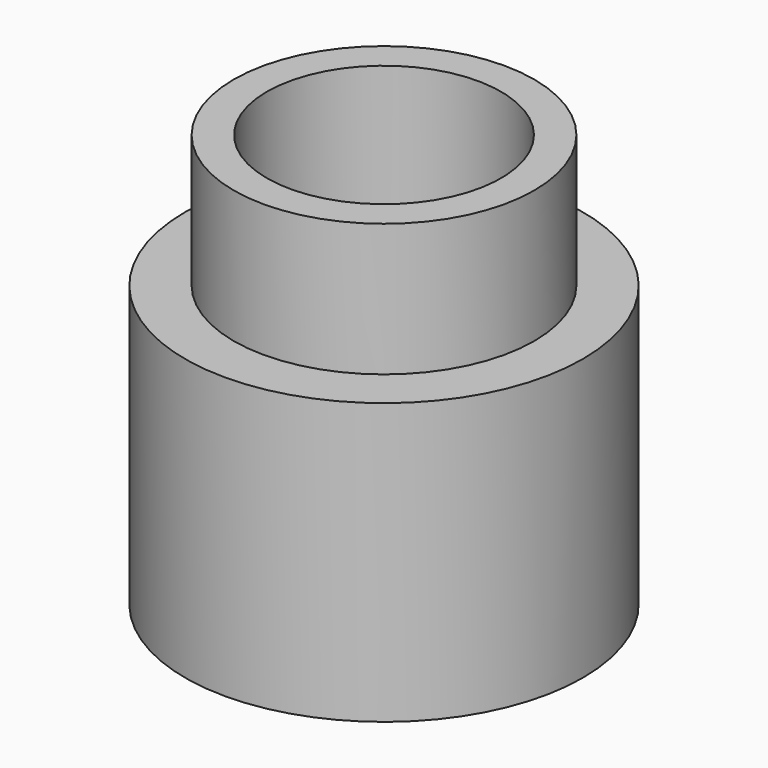
from build123d import *

# Parameters (mm, degrees)
F0_R     = 4.5
F1_DEPTH = 6.35
F2_R     = 3.4
F3_DEPTH = 3
F4_D     = 5.3


with BuildPart() as f1:
    # F0 (on Top) → F1 (new body)
    with BuildSketch(Plane.XY):
        Circle(F0_R)
    extrude(amount=F1_DEPTH)

    # F2 (on face) → F3 (join)
    with BuildSketch(Plane.XY.offset(6.35)):
        Circle(F2_R)
    extrude(amount=F3_DEPTH)

    # F4 (through all)
    with Locations(Plane(origin=(0, 0, 0), x_dir=(1, 0, 0), z_dir=(0, 0, -1))):
        with Locations((0, 0)):
            Hole(F4_D / 2)


solid = f1.part
